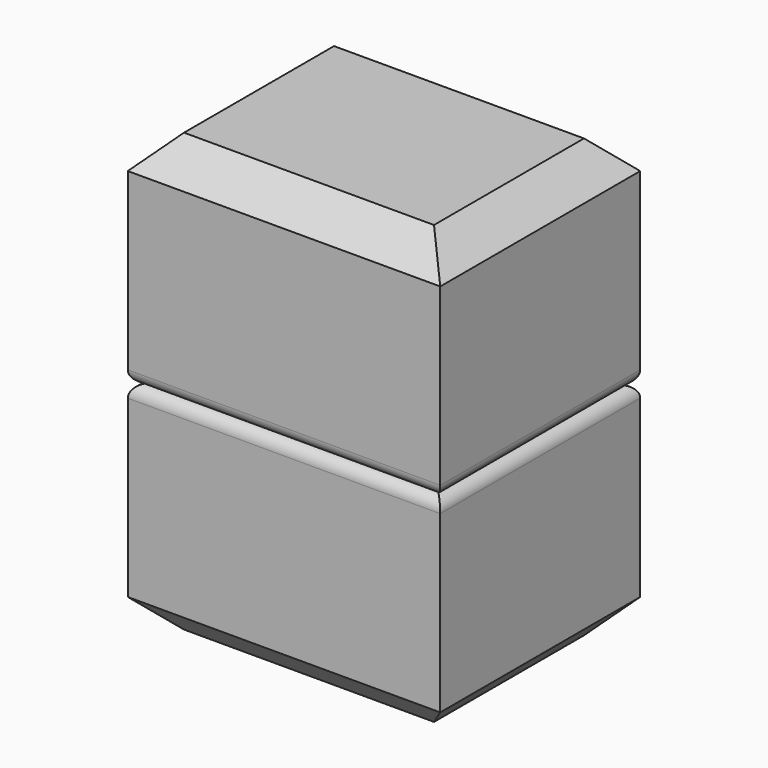
from build123d import *

# Parameters (mm, degrees)
F0_W     = 1270
F0_H     = 1016
F1_DEPTH = 889
F2_R     = 50.8
F3_SIZE  = 127
F5_D     = 38.89248
F5_DEPTH = 12.7
F5_TIP   = 11.6844798042


with BuildPart() as f1:
    # F0 (on Top) → F1 (new body)
    with BuildSketch(Plane.XY):
        with Locations((635, 508)):
            Rectangle(F0_W, F0_H)
    extrude(amount=F1_DEPTH)

    # F2
    f2_edges = [f1.edges().sort_by_distance(p)[0] for p in [
        (1270, 508, 889),
        (635, 1016, 889),
        (0, 508, 889),
        (635, 0, 889),
    ]]
    fillet(f2_edges, radius=F2_R)

    # F3
    f3_edges = [f1.edges().sort_by_distance(p)[0] for p in [
        (0, 508, 0),
        (635, 0, 0),
        (1270, 508, 0),
        (635, 1016, 0),
    ]]
    chamfer(f3_edges, length=F3_SIZE)

    # F5
    with Locations(Plane(origin=(0, 1016, 0), x_dir=(-1, 0, 0), z_dir=(0, 1, 0))):
        with Locations((-635, 508)):
            Hole(F5_D / 2, depth=F5_DEPTH)
            with Locations((0, 0, -(F5_DEPTH + F5_TIP / 2))):  # 118° drill point
                Cone(0, F5_D / 2, F5_TIP, mode=Mode.SUBTRACT)

    # F6: F1 across face


with BuildPart() as f1_1:
    add(f1.part)
    add(f1.part.mirror(Plane(origin=(635, 508, 889), x_dir=(1, 0, 0), z_dir=(0, 0, 1))))


with BuildPart() as f7_1:
    # F7: copy of F1
    add(f1_1.part)


solid = Compound([f1_1.part, f7_1.part])
